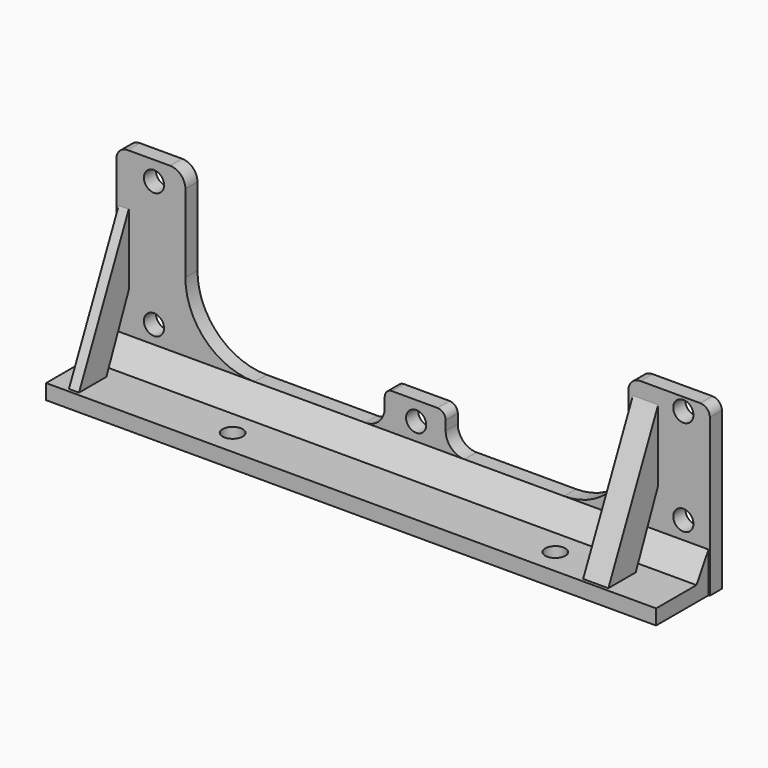
from build123d import *

# Parameters (mm, degrees)
SKETCH046_R     = 2
PAD031_DEPTH    = 3
PAD032_DEPTH    = 121
SKETCH048_R     = 2
POCKET006_DEPTH = 5
PAD034_DEPTH    = 5
PAD035_DEPTH    = 2


with BuildPart() as part:
    # Sketch046 → Pad031 (new body)
    with BuildSketch(Plane.XZ):
        with BuildLine():
            Line((-97.078247, 0), (24.252445, 0))
            Line((24.252445, 31.132916), (24.252445, 0))
            ThreePointArc((24.252445, 31.132916), (23.699133, 32.468728), (22.363321, 33.02204))
            Line((10.487469, 33.02204), (22.363321, 33.02204))
            ThreePointArc((10.487469, 33.02204), (8.798373, 32.322393), (8.098726, 30.633297))
            Line((8.098726, 20.736529), (8.098726, 30.633297))
            ThreePointArc((-4.637803, 8), (4.368283, 11.730443), (8.098726, 20.736529))
            Line((-24.402262, 8), (-4.637803, 8))
            ThreePointArc((-28.139309, 11.737048), (-27.044753, 9.094556), (-24.402262, 8))
            Line((-28.139309, 13.595442), (-28.139309, 11.737048))
            ThreePointArc((-28.139309, 13.595442), (-28.619727, 14.755273), (-29.779558, 15.235691))
            Line((-38.786943, 15.235691), (-29.779558, 15.235691))
            ThreePointArc((-38.786943, 15.235691), (-39.805693, 14.813711), (-40.227672, 13.794961))
            Line((-40.227672, 11.868778), (-40.227672, 13.794961))
            ThreePointArc((-44.096451, 8), (-41.360811, 9.133139), (-40.227672, 11.868778))
            Line((-66.045778, 8), (-44.096451, 8))
            ThreePointArc((-79.770671, 21.724892), (-75.750743, 12.019928), (-66.045778, 8))
            Line((-79.770671, 37.210011), (-79.770671, 21.724892))
            ThreePointArc((-79.770671, 37.210011), (-80.669155, 39.379145), (-82.838289, 40.277629))
            Line((-91.200258, 40.277629), (-82.838289, 40.277629))
            ThreePointArc((-91.200258, 40.277629), (-92.81323, 39.609514), (-93.481345, 37.996542))
            Line((-93.481345, 10.816122), (-93.481345, 37.996542))
            ThreePointArc((-96.297467, 8), (-94.306168, 8.824823), (-93.481345, 10.816122))
            Line((-97.078247, 8), (-96.297467, 8))
            Line((-97.078247, 0), (-97.078247, 8))
        make_face()
        with Locations((-86, 36.5)):
            Circle(SKETCH046_R, mode=Mode.SUBTRACT)
        with Locations((-86, 11.5)):
            Circle(SKETCH046_R, mode=Mode.SUBTRACT)
        with Locations((-34, 11.5)):
            Circle(SKETCH046_R, mode=Mode.SUBTRACT)
        with Locations((19, 30.5)):
            Circle(SKETCH046_R, mode=Mode.SUBTRACT)
        with Locations((19, 11.5)):
            Circle(SKETCH046_R, mode=Mode.SUBTRACT)
    extrude(amount=PAD031_DEPTH)

    # Sketch047 → Pad032 (join)
    with BuildSketch(Plane.YZ.offset(24)):
        Polygon((-3, 0), (-16, 0), (-16, 3), (-6, 3), (-3, 7.999382), align=None)
    extrude(amount=-PAD032_DEPTH)

    # Sketch048 → Pocket006 (cut)
    with BuildSketch(Plane.XY):
        with Locations((-64, -11)):
            Circle(SKETCH048_R)
        with Locations((0, -11)):
            Circle(SKETCH048_R)
    extrude(amount=POCKET006_DEPTH, mode=Mode.SUBTRACT)

    # Sketch054 → Pad034 (join)
    with BuildSketch(Plane.YZ.offset(9)):
        Polygon((-2.747999, 30.548568), (-2.747999, 16.500504), (-8.678396, 2.710541), (-15.46899, 2.710541), align=None)
    extrude(amount=PAD034_DEPTH)

    # Sketch055 → Pad035 (join)
    with BuildSketch(Plane.YZ.offset(-93)):
        Polygon((-2.747999, 30.548568), (-2.747999, 16.500504), (-8.678396, 2.710541), (-15.46899, 2.710541), align=None)
    extrude(amount=PAD035_DEPTH)


with BuildPart() as part_1:
    # Body011 placement: moved
    add(part.part.moved(Location((0, -18, -41.5))))


solid = part_1.part
